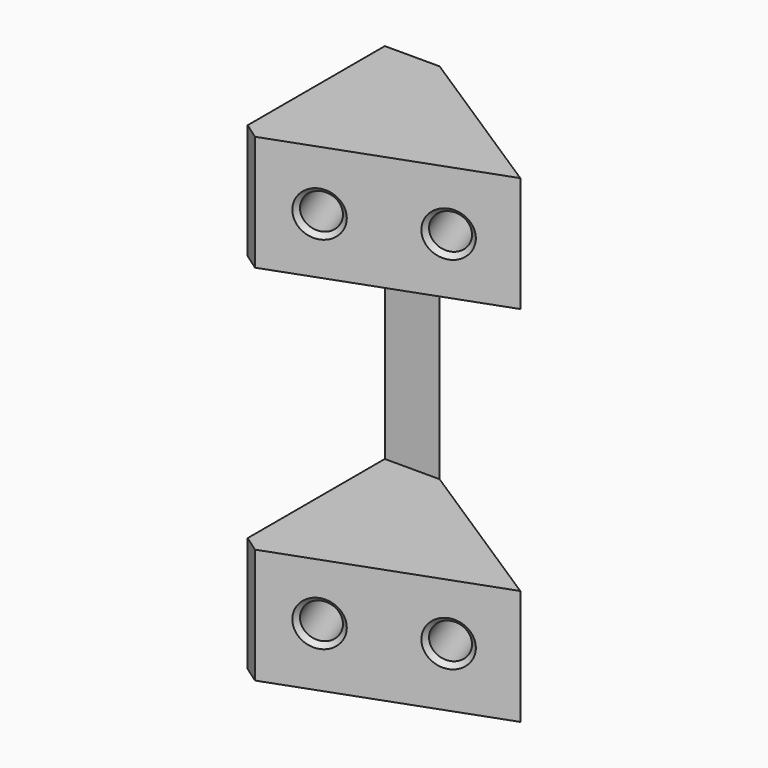
from build123d import *

# Parameters (mm, degrees)
PAD013_DEPTH    = 40.5
CHAMFER012_SIZE = 1.5
POCKET017_DEPTH = 21
SKETCH031_R     = 1.5
POCKET018_DEPTH = 10
POCKET019_DEPTH = 18.7948524157
CHAMFER013_SIZE = 1
CHAMFER014_SIZE = 0.4


with BuildPart() as part:
    # Sketch029 → Pad013 (new body)
    with BuildSketch(Plane.XY):
        Polygon((0, 0), (0, 19), (18.7938524157, 6.8404028665), align=None)
    extrude(amount=PAD013_DEPTH)

    # Chamfer012
    chamfer012_edges = [part.edges().sort_by_distance(p)[0] for p in [
        (0, 0, 20.25),
    ]]
    chamfer(chamfer012_edges, length=CHAMFER012_SIZE)

    # Sketch030 (on DatumPlane) → Pocket017 (cut)
    with BuildSketch(Plane.XY.offset(9.75)):
        Polygon((0, 0), (0, 16), (18.7938524157, 16), (18.7938524157, 6.8404028665), align=None)
    extrude(amount=POCKET017_DEPTH, mode=Mode.SUBTRACT)

    # Sketch031 (on Face11 of Pocket017) → Pocket018 (cut)
    with BuildSketch(Plane(origin=(0, 0, 0), x_dir=(0.9396926208, 0.3420201433, 0), z_dir=(0.3420201433, -0.9396926208, 0))):
        with Locations((6, 5)):
            Circle(SKETCH031_R)
        with Locations((6, 35.5)):
            Circle(SKETCH031_R)
        with Locations((15, 35.5)):
            Circle(SKETCH031_R)
        with Locations((15, 5)):
            Circle(SKETCH031_R)
    extrude(amount=-POCKET018_DEPTH, mode=Mode.SUBTRACT)

    # Sketch032 (on Face1 of Pocket018) → Pocket019 (cut, through all)
    with BuildSketch(Plane(origin=(0, 0, 0), x_dir=(0, -1, 0), z_dir=(-1, 0, 0))):
        Polygon((-19, 3), (-19, 0), (-16, 0), align=None)
        Polygon((-16, 40.5), (-19, 40.5), (-19, 37.5), align=None)
    extrude(amount=-POCKET019_DEPTH, mode=Mode.SUBTRACT)

    # Chamfer013
    chamfer013_edges = [part.edges().sort_by_distance(p)[0] for p in [
        (0, 19, 20.25),
    ]]
    chamfer(chamfer013_edges, length=CHAMFER013_SIZE)

    # Chamfer014
    chamfer014_edges = [part.edges().sort_by_distance(p)[0] for p in [
        (4.228617, 1.539091, 5),
        (12.68585, 4.617272, 5),
        (4.228617, 1.539091, 35.5),
        (12.68585, 4.617272, 35.5),
    ]]
    chamfer(chamfer014_edges, length=CHAMFER014_SIZE)


solid = part.part
